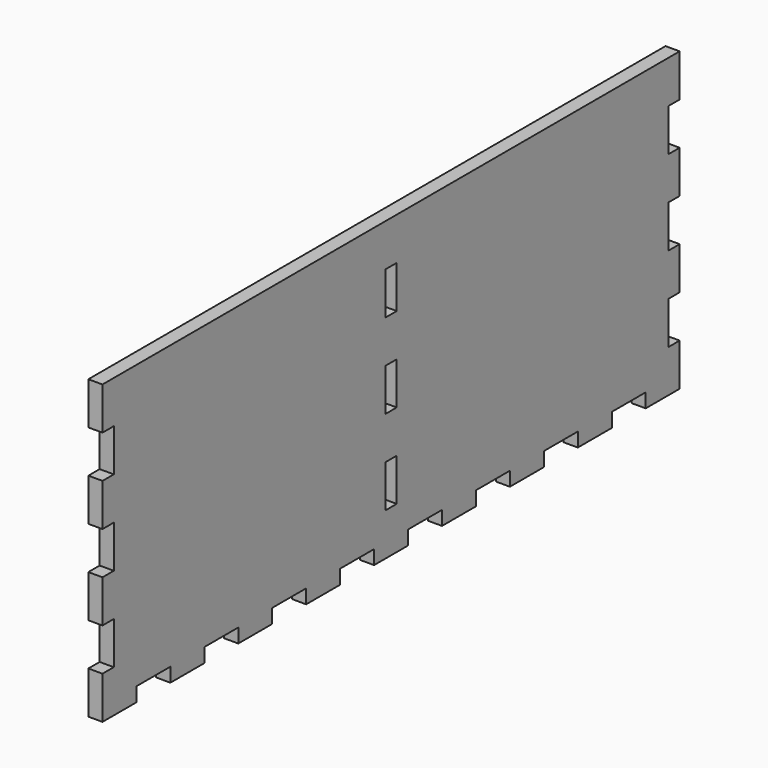
from build123d import *

# Parameters (mm, degrees)
F0_W     = 161.925
F0_H     = 66.675
F1_DEPTH = 3.175
F2_W     = 3.175
F2_H     = 9.525
F3_DEPTH = 3.176
F4_W     = 9.525
F4_H     = 3.175
F5_DEPTH = 3.176


with BuildPart() as f1:
    # F0 (on Right) → F1 (new body)
    with BuildSketch(Plane.YZ):
        Rectangle(F0_W, F0_H)
    extrude(amount=F1_DEPTH)

    # F2 (on face) → F3 (cut, through all)
    with BuildSketch(Plane.YZ.offset(3.175)):
        with Locations((-79.375, -19.05)):
            Rectangle(F2_W, F2_H)
        with Locations((-79.375, 0)):
            Rectangle(F2_W, F2_H)
        with Locations((-79.375, 19.05)):
            Rectangle(F2_W, F2_H)
        with Locations((0, -19.05)):
            Rectangle(F2_W, F2_H)
        Rectangle(F2_W, F2_H)
        with Locations((0, 19.05)):
            Rectangle(F2_W, F2_H)
        with Locations((79.375, -19.05)):
            Rectangle(F2_W, F2_H)
        with Locations((79.375, 0)):
            Rectangle(F2_W, F2_H)
        with Locations((79.375, 19.05)):
            Rectangle(F2_W, F2_H)
    extrude(amount=-F3_DEPTH, mode=Mode.SUBTRACT)

    # F4 (on face) → F5 (cut, through all)
    with BuildSketch(Plane.YZ.offset(3.175)):
        with Locations((-66.675, -31.75)):
            Rectangle(F4_W, F4_H)
        with Locations((-47.625, -31.75)):
            Rectangle(F4_W, F4_H)
        with Locations((-28.575, -31.75)):
            Rectangle(F4_W, F4_H)
        with Locations((-9.525, -31.75)):
            Rectangle(F4_W, F4_H)
        with Locations((9.525, -31.75)):
            Rectangle(F4_W, F4_H)
        with Locations((28.575, -31.75)):
            Rectangle(F4_W, F4_H)
        with Locations((47.625, -31.75)):
            Rectangle(F4_W, F4_H)
        with Locations((66.675, -31.75)):
            Rectangle(F4_W, F4_H)
    extrude(amount=-F5_DEPTH, mode=Mode.SUBTRACT)


solid = f1.part
